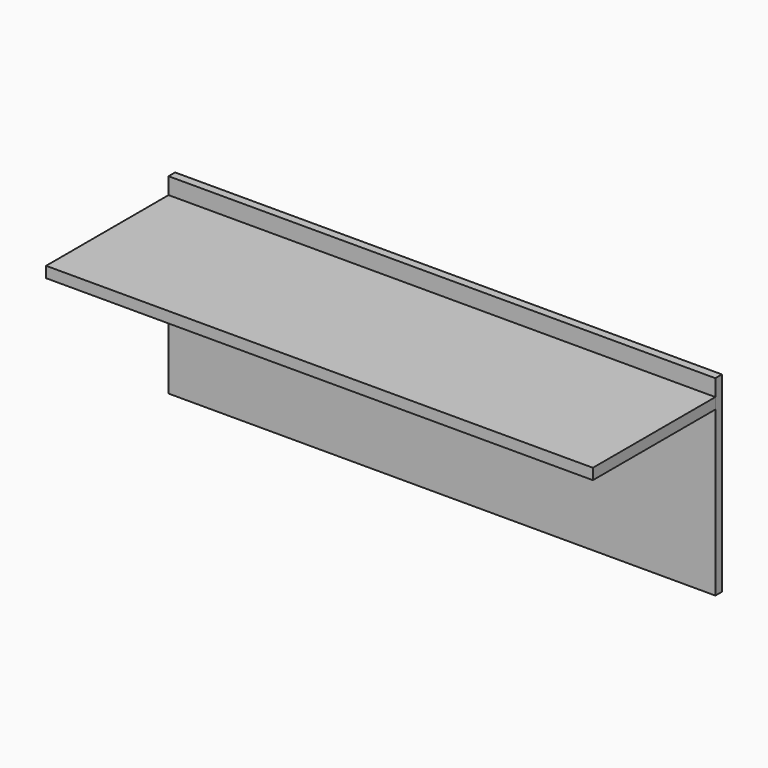
from build123d import *

# Parameters (mm, degrees)
F0_W     = 100
F0_H     = 35
F1_DEPTH = 1.5
F2_W     = 100
F2_H     = 2
F3_DEPTH = 28


with BuildPart() as f1:
    # F0 (on Front) → F1 (new body)
    with BuildSketch(Plane.XZ):
        Rectangle(F0_W, F0_H)
    extrude(amount=F1_DEPTH)

    # F2 (on face) → F3 (join)
    with BuildSketch(Plane.XZ.offset(1.5)):
        with Locations((-1e-06, 13.460001)):
            Rectangle(F2_W, F2_H)
    extrude(amount=F3_DEPTH)


solid = f1.part
